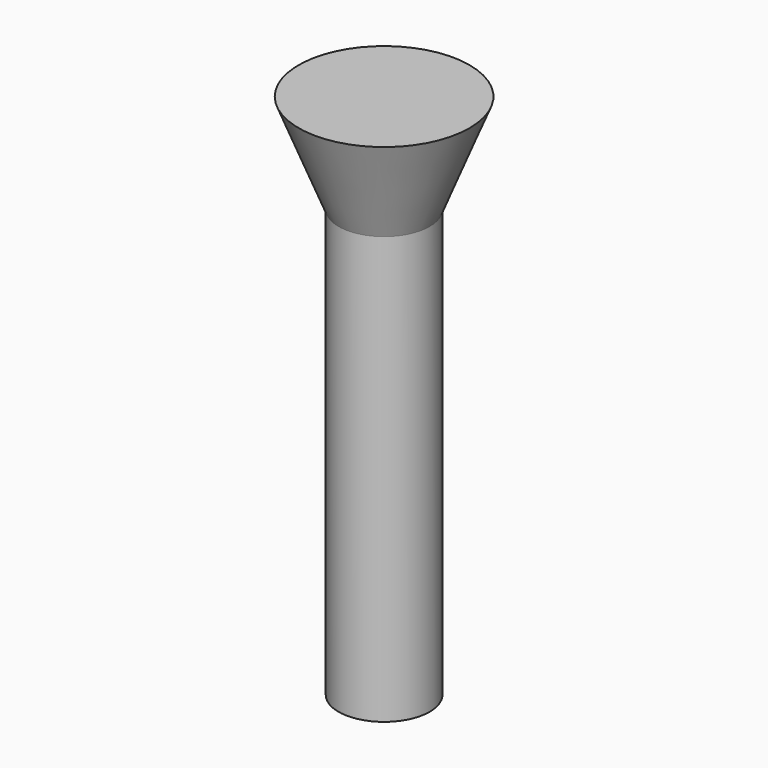
from build123d import *

# Parameters (mm, degrees)
CYLINDER111_R     = 1.6
CYLINDER111_DEPTH = 15


with BuildPart() as cylinder111:
    # Cylinder111 → Cylinder111 (new body)
    with BuildSketch(Plane.XY):
        Circle(CYLINDER111_R)
    extrude(amount=CYLINDER111_DEPTH)


with BuildPart() as fusion045:
    # Cone013 → Cone013 (revolve)
    with BuildSketch(Plane(origin=(0, 0, 15), x_dir=(1, 0, 0), z_dir=(0, -1, 0))):
        Polygon((0, 0), (1.6, 0), (3, 3.5), (0, 3.5), align=None)
    revolve(axis=Axis((0, 0, 15), (0, 0, 1)))

    # Fusion045: union Cylinder111
    add(cylinder111.part)


with BuildPart() as fusion045_1:
    # Fusion045 placement: moved
    add(fusion045.part.moved(Location((118.9, 37.2, 48.8))))


solid = fusion045_1.part
